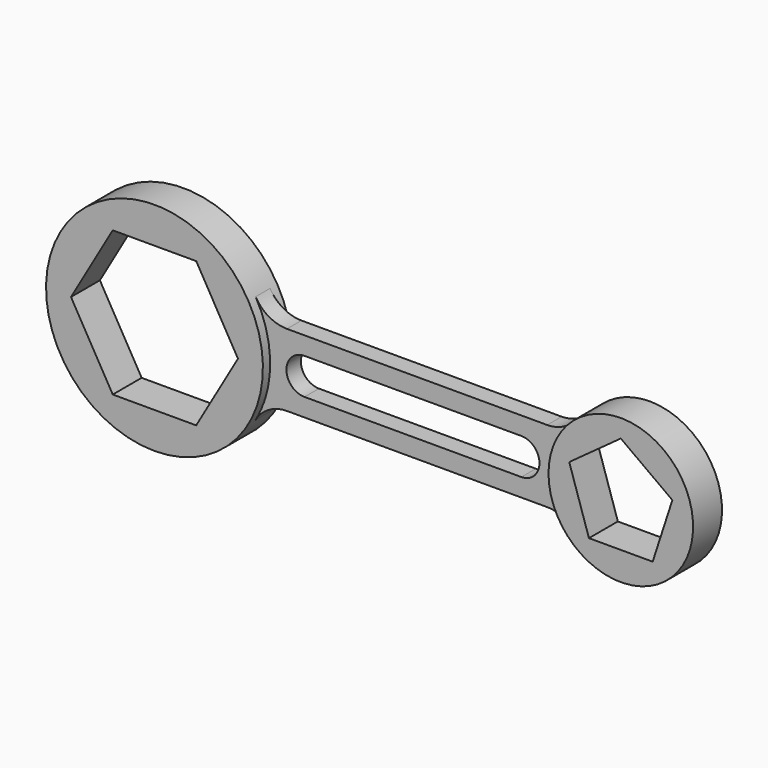
from build123d import *

# Parameters (mm, degrees)
F1_DEPTH = 127
F2_DEPTH = 127
F3_DEPTH = 63.5


with BuildPart() as f1:
    # F0 (on Front) → F1 (new body, symmetric)
    with BuildSketch(Plane.XZ):
        with BuildLine():
            ThreePointArc((659.9113576837, -381), (762, 0), (659.9113576837, 381))
            ThreePointArc((659.9113576837, 381), (-762, 0), (659.9113576837, -381))
        make_face()
        Polygon((-586.5878734967, 0), (-293.2939367483, 508), (293.2939367483, 508), (586.5878734967, 0), (293.2939367483, -508), (-293.2939367483, -508), align=None, mode=Mode.SUBTRACT)
    extrude(amount=F1_DEPTH, both=True)


with BuildPart() as f2:
    # F0 (on Front) → F2 (new body, symmetric)
    with BuildSketch(Plane.XZ):
        with BuildLine():
            ThreePointArc((2897.95915581, -338.6666666667), (3784.6, 0), (2897.95915581, 338.6666666667))
            ThreePointArc((2897.95915581, 338.6666666667), (2768.6, 0), (2897.95915581, -338.6666666667))
        make_face()
        Polygon((3638.9525327085, 117.7354748569), (3500.5461811234, -308.2354748569), (3052.6538188766, -308.2354748569), (2914.2474672915, 117.7354748569), (3276.6, 381), align=None, mode=Mode.SUBTRACT)
    extrude(amount=F2_DEPTH, both=True)


with BuildPart() as f3:
    # F0 (on Front) → F3 (new body, symmetric)
    with BuildSketch(Plane.XZ):
        with BuildLine():
            ThreePointArc((879.881810245, 254), (752.881810245, 288.0295474388), (659.9113576837, 381))
            ThreePointArc((659.9113576837, 381), (762, 0), (659.9113576837, -381))
            ThreePointArc((659.9113576837, -381), (752.881810245, -288.0295474388), (879.881810245, -254))
            Line((879.881810245, -254), (2708.6387337151, -254))
            ThreePointArc((2708.6387337151, -254), (2812.3337994929, -276.1307839895), (2897.95915581, -338.6666666667))
            ThreePointArc((2897.95915581, -338.6666666667), (2768.6, 0), (2897.95915581, 338.6666666667))
            ThreePointArc((2897.95915581, 338.6666666667), (2812.3337994929, 276.1307839895), (2708.6387337151, 254))
            Line((2708.6387337151, 254), (879.881810245, 254))
        make_face()
        with BuildLine():
            Line((1003.3, 127), (1765.3, 127))
            Line((1765.3, 127), (2527.3, 127))
            ThreePointArc((2527.3, 127), (2654.3, 0), (2527.3, -127))
            Line((2527.3, -127), (1003.3, -127))
            ThreePointArc((1003.3, -127), (876.3, 0), (1003.3, 127))
        make_face(mode=Mode.SUBTRACT)
    extrude(amount=F3_DEPTH, both=True)


solid = Compound([f1.part, f2.part, f3.part])
